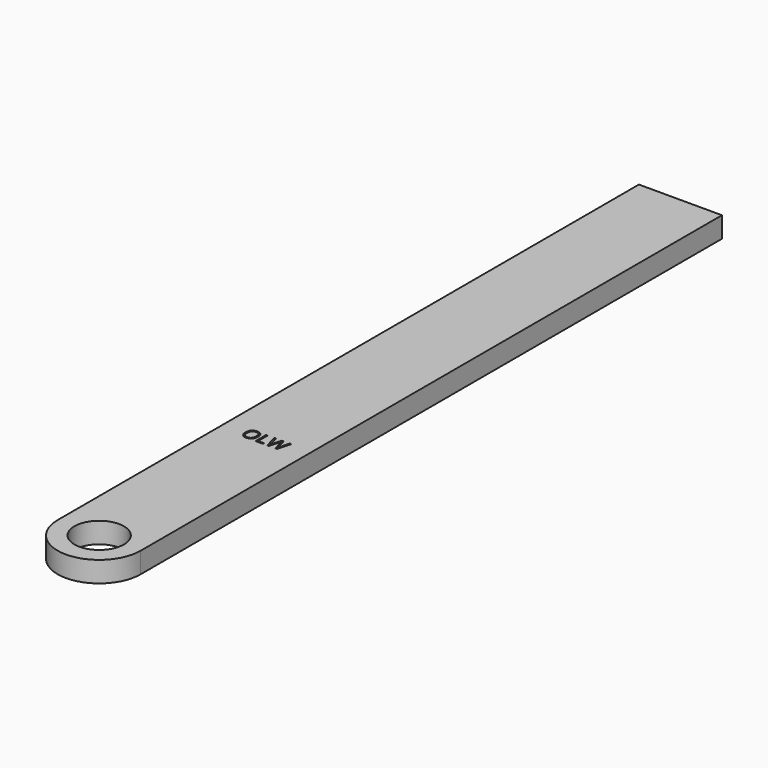
from build123d import *

# Parameters (mm, degrees)
F0_R     = 30.2442698834
F1_DEPTH = 25.4


with BuildPart() as f1:
    # F0 (on Top) → F1 (new body)
    with BuildSketch(Plane.XY):
        with BuildLine():
            ThreePointArc((-190.0850385427, -82.2389796376), (-139.2850385427, -133.0389796376), (-88.4850385427, -82.2389796376))
            Line((-88.4850385427, -82.2389796376), (-88.4850385427, 806.7610203624))
            Line((-88.4850385427, 806.7610203624), (-190.0850385427, 806.7610203624))
            Line((-190.0850385427, 806.7610203624), (-190.0850385427, -82.2389796376))
        make_face()
        with Locations((-139.2850385427, -82.2389796376)):
            Circle(F0_R, mode=Mode.SUBTRACT)
        with BuildLine():
            Line((-113.8850385427, 179.8376055464), (-113.8850385427, 163.4274528315))
            Line((-113.8850385427, 163.4274528315), (-118.274009131, 163.4274528315))
            Line((-118.274009131, 163.4274528315), (-120.1596143346, 163.4274528315))
            Line((-120.1596143346, 163.4274528315), (-128.2982455563, 163.4274528315))
            Line((-128.2982455563, 163.4274528315), (-130.1838507599, 163.4274528315))
            Line((-130.1838507599, 163.4274528315), (-135.380937864, 163.4274528315))
            Line((-135.380937864, 163.4274528315), (-144.5288168233, 163.4274528315))
            Line((-144.5288168233, 163.4274528315), (-153.6275803556, 163.4274528315))
            add(Edge.make_bspline(
                [(-153.6275803556, 163.4274528315), (-154.5943963548, 163.201180207), (-155.7167410314, 163.201180207)],
                knots=[0.6833950988, 0.6833950988, 0.6833950988, 1, 1, 1], degree=2))
            add(Edge.make_bspline(
                [(-155.7167410314, 163.201180207), (-156.8742768127, 163.201180207), (-157.8630700132, 163.4274528315)],
                knots=[0, 0, 0, 0.319412416, 0.319412416, 0.319412416], degree=2))
            Line((-157.8630700132, 163.4274528315), (-164.6850385427, 163.4274528315))
            Line((-164.6850385427, 163.4274528315), (-164.6850385427, 713.4521007538))
            Line((-164.6850385427, 713.4521007538), (-113.8850385427, 713.4521007538))
            Line((-113.8850385427, 713.4521007538), (-113.8850385427, 179.8376055464))
        make_face(mode=Mode.SUBTRACT)
        with BuildLine():
            Line((-115.9071256468, 179.8376055464), (-113.8850385427, 179.8376055464))
            Line((-113.8850385427, 179.8376055464), (-113.8850385427, 713.4521007538))
            Line((-113.8850385427, 713.4521007538), (-164.6850385427, 713.4521007538))
            Line((-164.6850385427, 713.4521007538), (-164.6850385427, 163.4274528315))
            Line((-164.6850385427, 163.4274528315), (-157.8630700132, 163.4274528315))
            add(Edge.make_bspline(
                [(-157.8630700132, 163.4274528315), (-159.9699398208, 163.9095829275), (-161.3107031355, 165.4190110894)],
                knots=[0.319412416, 0.319412416, 0.319412416, 1, 1, 1], degree=2))
            add(Edge.make_bspline(
                [(-161.3107031355, 165.4190110894), (-163.2807116197, 167.6368419717), (-163.2807116197, 171.6774245509)],
                knots=[0, 0, 0, 1, 1, 1], degree=2))
            add(Edge.make_bspline(
                [(-163.2807116197, 171.6774245509), (-163.2807116197, 175.6856824695), (-161.3053156921, 177.8909426505)],
                knots=[0, 0, 0, 1, 1, 1], degree=2))
            add(Edge.make_bspline(
                [(-161.3053156921, 177.8909426505), (-159.3299197645, 180.0962028315), (-155.6951912577, 180.0962028315)],
                knots=[0, 0, 0, 1, 1, 1], degree=2))
            add(Edge.make_bspline(
                [(-155.6951912577, 180.0962028315), (-152.1574367328, 180.0962028315), (-150.1712659183, 177.8514347319)],
                knots=[0, 0, 0, 1, 1, 1], degree=2))
            add(Edge.make_bspline(
                [(-150.1712659183, 177.8514347319), (-148.1850951038, 175.6066666324), (-148.1850951038, 171.6558747772)],
                knots=[0, 0, 0, 1, 1, 1], degree=2))
            add(Edge.make_bspline(
                [(-148.1850951038, 171.6558747772), (-148.1850951038, 167.7158578088), (-150.1784491762, 165.4585190079)],
                knots=[0, 0, 0, 1, 1, 1], degree=2))
            add(Edge.make_bspline(
                [(-150.1784491762, 165.4585190079), (-151.5406975794, 163.9158647351), (-153.6275803556, 163.4274528315)],
                knots=[0, 0, 0, 0.6833950988, 0.6833950988, 0.6833950988], degree=2))
            Line((-153.6275803556, 163.4274528315), (-144.5288168233, 163.4274528315))
            Line((-144.5288168233, 163.4274528315), (-144.5288168233, 179.8376055464))
            Line((-144.5288168233, 179.8376055464), (-142.6216618459, 179.8376055464))
            Line((-142.6216618459, 179.8376055464), (-142.6216618459, 165.1550263609))
            Line((-142.6216618459, 165.1550263609), (-135.380937864, 165.1550263609))
            Line((-135.380937864, 165.1550263609), (-135.380937864, 163.4274528315))
            Line((-135.380937864, 163.4274528315), (-130.1838507599, 163.4274528315))
            Line((-130.1838507599, 163.4274528315), (-134.5512715744, 179.8376055464))
            Line((-134.5512715744, 179.8376055464), (-132.5291844703, 179.8376055464))
            Line((-132.5291844703, 179.8376055464), (-129.9360283618, 169.7020286233))
            add(Edge.make_bspline(
                [(-129.9360283618, 169.7020286233), (-129.3972840179, 167.5686010215), (-129.1494616197, 165.8410274921)],
                knots=[0, 0, 0, 1, 1, 1], degree=2))
            add(Edge.make_bspline(
                [(-129.1494616197, 165.8410274921), (-128.8477647871, 167.8954392568), (-128.2515543799, 169.8600602975)],
                knots=[0, 0, 0, 1, 1, 1], degree=2))
            Line((-128.2515543799, 169.8600602975), (-125.3136018912, 179.8376055464))
            Line((-125.3136018912, 179.8376055464), (-123.2915147871, 179.8376055464))
            Line((-123.2915147871, 179.8376055464), (-120.2063055111, 169.7702695735))
            add(Edge.make_bspline(
                [(-120.2063055111, 169.7702695735), (-119.6675611672, 168.0283295283), (-119.2976233844, 165.8410274921)],
                knots=[0, 0, 0, 1, 1, 1], degree=2))
            add(Edge.make_bspline(
                [(-119.2976233844, 165.8410274921), (-119.0821256468, 167.43571075), (-118.4895068685, 169.7235783971)],
                knots=[0, 0, 0, 1, 1, 1], degree=2))
            Line((-118.4895068685, 169.7235783971), (-115.9071256468, 179.8376055464))
        make_face()
        with BuildLine():
            Line((-128.2982455563, 163.4274528315), (-120.1596143346, 163.4274528315))
            Line((-120.1596143346, 163.4274528315), (-123.4710962351, 174.4142458179))
            add(Edge.make_bspline(
                [(-123.4710962351, 174.4142458179), (-123.7081437464, 175.1469381256), (-123.9990656921, 176.256751474)],
                knots=[0, 0, 0, 1, 1, 1], degree=2))
            add(Edge.make_bspline(
                [(-123.9990656921, 176.256751474), (-124.2899876378, 177.3665648224), (-124.3007625246, 177.5928374468)],
                knots=[0, 0, 0, 1, 1, 1], degree=2))
            add(Edge.make_bspline(
                [(-124.3007625246, 177.5928374468), (-124.5485849228, 176.1094946867), (-125.0873292667, 174.3495964966)],
                knots=[0, 0, 0, 1, 1, 1], degree=2))
            Line((-125.0873292667, 174.3495964966), (-128.2982455563, 163.4274528315))
        make_face()
        Polygon((-118.274009131, 163.4274528315), (-113.8850385427, 163.4274528315), (-113.8850385427, 179.8376055464), align=None)
    extrude(amount=F1_DEPTH)


with BuildPart() as f1b:
    # F0 (on Top) → F1, piece 2 (new body)
    with BuildSketch(Plane.XY):
        with BuildLine():
            add(Edge.make_bspline(
                [(-159.8417268912, 176.6661971754), (-161.2622161446, 174.9422152749), (-161.2622161446, 171.6558747772)],
                knots=[0, 0, 0, 1, 1, 1], degree=2))
            add(Edge.make_bspline(
                [(-161.2622161446, 171.6558747772), (-161.2622161446, 168.322843103), (-159.8417268912, 166.5988612025)],
                knots=[0, 0, 0, 1, 1, 1], degree=2))
            add(Edge.make_bspline(
                [(-159.8417268912, 166.5988612025), (-158.4212376378, 164.8748793021), (-155.7167410314, 164.8748793021)],
                knots=[0, 0, 0, 1, 1, 1], degree=2))
            add(Edge.make_bspline(
                [(-155.7167410314, 164.8748793021), (-152.9906946513, 164.8748793021), (-151.5989384296, 166.5916779446)],
                knots=[0, 0, 0, 1, 1, 1], degree=2))
            add(Edge.make_bspline(
                [(-151.5989384296, 166.5916779446), (-150.2071822079, 168.3084765871), (-150.2071822079, 171.6558747772)],
                knots=[0, 0, 0, 1, 1, 1], degree=2))
            add(Edge.make_bspline(
                [(-150.2071822079, 171.6558747772), (-150.2071822079, 174.9673566776), (-151.5935509862, 176.6787678767)],
                knots=[0, 0, 0, 1, 1, 1], degree=2))
            add(Edge.make_bspline(
                [(-151.5935509862, 176.6787678767), (-152.9799197645, 178.3901790758), (-155.6951912577, 178.3901790758)],
                knots=[0, 0, 0, 1, 1, 1], degree=2))
            add(Edge.make_bspline(
                [(-155.6951912577, 178.3901790758), (-158.4212376378, 178.3901790758), (-159.8417268912, 176.6661971754)],
                knots=[0, 0, 0, 1, 1, 1], degree=2))
        make_face()
    extrude(amount=F1_DEPTH)


solid = Compound([f1.part, f1b.part])
